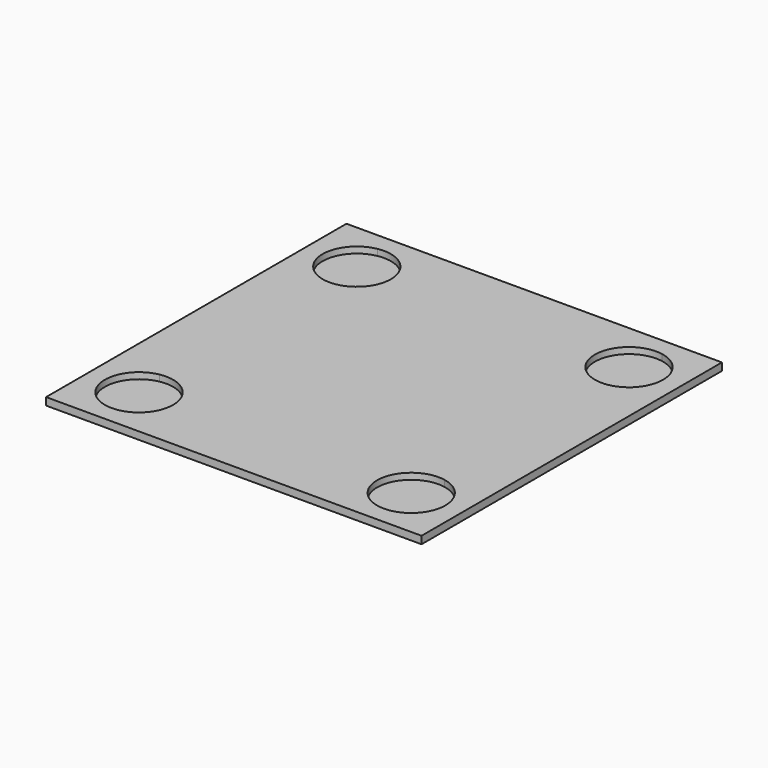
from build123d import *

# Parameters (mm, degrees)
F0_W     = 60
F0_H     = 60
F1_DEPTH = 1.2
F3_DEPTH = 1


with BuildPart() as f1:
    # F0 (on Top) → F1 (new body)
    with BuildSketch(Plane.XY):
        Rectangle(F0_W, F0_H)
    extrude(amount=F1_DEPTH)

    # F2 (on face) → F3 (cut)
    with BuildSketch(Plane.XY.offset(1.2)):
        with BuildLine():
            Line((-22.75, 16.3925285815), (-22.75, 27.1074714185))
            ThreePointArc((-22.75, 27.1074714185), (-27.2, 21.75), (-22.75, 16.3925285815))
        make_face()
        with BuildLine():
            ThreePointArc((-16.3, 21.75), (-18.2677234458, 25.9424038451), (-22.75, 27.1074714185))
            Line((-22.75, 27.1074714185), (-22.75, 16.3925285815))
            ThreePointArc((-22.75, 16.3925285815), (-18.2677234458, 17.5575961549), (-16.3, 21.75))
        make_face()
        with BuildLine():
            Line((22.75, 16.3925285815), (22.75, 27.1074714185))
            ThreePointArc((22.75, 27.1074714185), (16.3, 21.75), (22.75, 16.3925285815))
        make_face()
        with BuildLine():
            ThreePointArc((22.75, 16.3925285815), (25.9424038451, 18.2677234458), (27.2, 21.75))
            ThreePointArc((27.2, 21.75), (25.9424038451, 25.2322765542), (22.75, 27.1074714185))
            Line((22.75, 27.1074714185), (22.75, 16.3925285815))
        make_face()
        with BuildLine():
            Line((22.75, -27.1074714185), (22.75, -16.3925285815))
            ThreePointArc((22.75, -16.3925285815), (16.3, -21.75), (22.75, -27.1074714185))
        make_face()
        with BuildLine():
            ThreePointArc((27.2, -21.75), (25.9424038451, -18.2677234458), (22.75, -16.3925285815))
            Line((22.75, -16.3925285815), (22.75, -27.1074714185))
            ThreePointArc((22.75, -27.1074714185), (25.9424038451, -25.2322765542), (27.2, -21.75))
        make_face()
        with BuildLine():
            ThreePointArc((-22.75, -16.3925285815), (-27.2, -21.75), (-22.75, -27.1074714185))
            Line((-22.75, -27.1074714185), (-22.75, -16.3925285815))
        make_face()
        with BuildLine():
            Line((-22.75, -16.3925285815), (-22.75, -27.1074714185))
            ThreePointArc((-22.75, -27.1074714185), (-18.2677234458, -25.9424038451), (-16.3, -21.75))
            ThreePointArc((-16.3, -21.75), (-18.2677234458, -17.5575961549), (-22.75, -16.3925285815))
        make_face()
    extrude(amount=-F3_DEPTH, mode=Mode.SUBTRACT)


solid = f1.part
